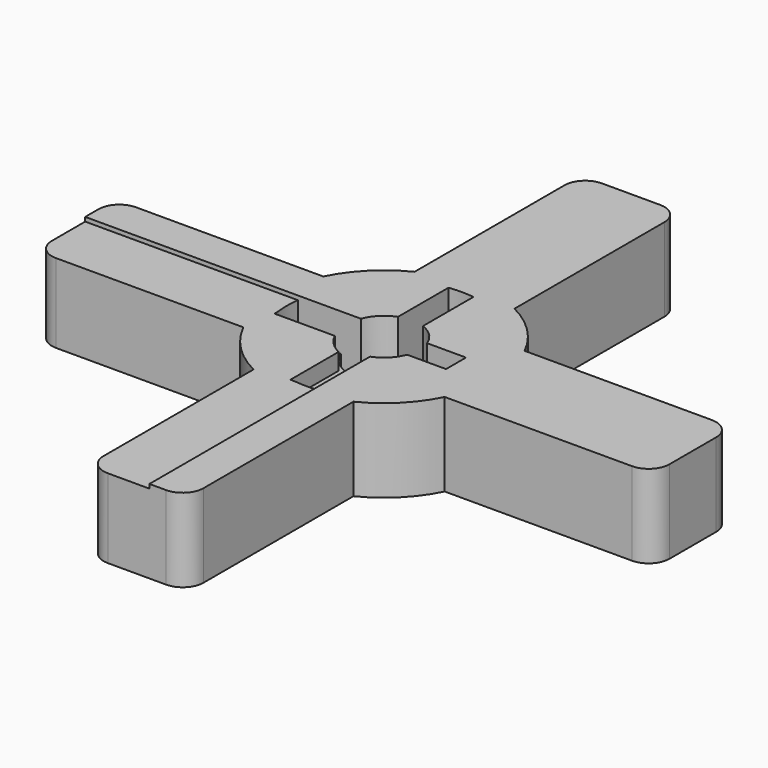
from build123d import *

# Parameters (mm, degrees)
F1_DEPTH = 20
F3_DEPTH = 1
F5_DEPTH = 4
F6_R     = 3
F7_DEPTH = 4
F8_R     = 6.5
F8_R_2   = 3
F9_DEPTH = 7


with BuildPart() as f1:
    # F0 (on Top) → F1 (new body)
    with BuildSketch(Plane.XY):
        with BuildLine():
            ThreePointArc((-24.1867732449, -12), (-27, 0), (-24.1867732449, 12))
            Line((-24.1867732449, 12), (-69.1867732449, 12))
            ThreePointArc((-69.1867732449, 12), (-72.7223071508, 10.5355339059), (-74.1867732449, 7))
            Line((-74.1867732449, 7), (-74.1867732449, -7))
            ThreePointArc((-74.1867732449, -7), (-72.7223071508, -10.5355339059), (-69.1867732449, -12))
            Line((-69.1867732449, -12), (-24.1867732449, -12))
        make_face()
        with BuildLine():
            ThreePointArc((24.1867732449, -12), (26.2872866383, -6.1626748408), (27, 0))
            ThreePointArc((27, 0), (26.2872866383, 6.1626748408), (24.1867732449, 12))
            ThreePointArc((24.1867732449, 12), (19.091883092, 19.091883092), (12, 24.1867732449))
            ThreePointArc((12, 24.1867732449), (0, 27), (-12, 24.1867732449))
            ThreePointArc((-12, 24.1867732449), (-19.091883092, 19.091883092), (-24.1867732449, 12))
            ThreePointArc((-24.1867732449, 12), (-27, 0), (-24.1867732449, -12))
            ThreePointArc((-24.1867732449, -12), (-19.091883092, -19.091883092), (-12, -24.1867732449))
            ThreePointArc((-12, -24.1867732449), (0, -27), (12, -24.1867732449))
            ThreePointArc((12, -24.1867732449), (19.091883092, -19.091883092), (24.1867732449, -12))
        make_face()
        with BuildLine():
            ThreePointArc((3, 23.1060598112), (17.5041423669, 15.3783939343), (23.3, 0))
            ThreePointArc((23.3, 0), (17.5041423669, -15.3783939343), (3, -23.1060598112))
            ThreePointArc((3, -23.1060598112), (0, -23.3), (-3, -23.1060598112))
            ThreePointArc((-3, -23.1060598112), (-16.4755880016, -16.4755880016), (-23.1060598112, -3))
            ThreePointArc((-23.1060598112, -3), (-23.3, 0), (-23.1060598112, 3))
            ThreePointArc((-23.1060598112, 3), (-16.4755880016, 16.4755880016), (-3, 23.1060598112))
            ThreePointArc((-3, 23.1060598112), (0, 23.3), (3, 23.1060598112))
        make_face(mode=Mode.SUBTRACT)
        with BuildLine():
            Line((-3, 7.9529868603), (-3, 23.1060598112))
            ThreePointArc((-3, 23.1060598112), (-16.4755880016, 16.4755880016), (-23.1060598112, 3))
            Line((-23.1060598112, 3), (-7.9529868603, 3))
            ThreePointArc((-7.9529868603, 3), (-6.0104076401, 6.0104076401), (-3, 7.9529868603))
        make_face()
        with BuildLine():
            ThreePointArc((3, -23.1060598112), (17.5041423669, -15.3783939343), (23.3, 0))
            ThreePointArc((23.3, 0), (17.5041423669, 15.3783939343), (3, 23.1060598112))
            Line((3, 23.1060598112), (3, 7.9529868603))
            ThreePointArc((3, 7.9529868603), (6.0104076401, 6.0104076401), (7.9529868603, 3))
            Line((7.9529868603, 3), (17.3, 3))
            Line((17.3, 3), (17.3, -3))
            Line((17.3, -3), (7.9529868603, -3))
            ThreePointArc((7.9529868603, -3), (6.0104076401, -6.0104076401), (3, -7.9529868603))
            Line((3, -7.9529868603), (3, -23.1060598112))
        make_face()
        with BuildLine():
            ThreePointArc((-23.1060598112, -3), (-16.4755880016, -16.4755880016), (-3, -23.1060598112))
            Line((-3, -23.1060598112), (-3, -7.9529868603))
            ThreePointArc((-3, -7.9529868603), (-6.0104076401, -6.0104076401), (-7.9529868603, -3))
            Line((-7.9529868603, -3), (-23.1060598112, -3))
        make_face()
        with BuildLine():
            ThreePointArc((-12, 24.1867732449), (0, 27), (12, 24.1867732449))
            Line((12, 24.1867732449), (12, 69.1867732449))
            ThreePointArc((12, 69.1867732449), (10.5355339059, 72.7223071508), (7, 74.1867732449))
            Line((7, 74.1867732449), (-7, 74.1867732449))
            ThreePointArc((-7, 74.1867732449), (-10.5355339059, 72.7223071508), (-12, 69.1867732449))
            Line((-12, 69.1867732449), (-12, 24.1867732449))
        make_face()
        with BuildLine():
            ThreePointArc((24.1867732449, 12), (26.2872866383, 6.1626748408), (27, 0))
            ThreePointArc((27, 0), (26.2872866383, -6.1626748408), (24.1867732449, -12))
            Line((24.1867732449, -12), (69.1867732449, -12))
            ThreePointArc((69.1867732449, -12), (72.7223071508, -10.5355339059), (74.1867732449, -7))
            Line((74.1867732449, -7), (74.1867732449, 7))
            ThreePointArc((74.1867732449, 7), (72.7223071508, 10.5355339059), (69.1867732449, 12))
            Line((69.1867732449, 12), (24.1867732449, 12))
        make_face()
        with BuildLine():
            Line((12, -69.1867732449), (12, -24.1867732449))
            ThreePointArc((12, -24.1867732449), (0, -27), (-12, -24.1867732449))
            Line((-12, -24.1867732449), (-12, -69.1867732449))
            ThreePointArc((-12, -69.1867732449), (-10.5355339059, -72.7223071508), (-7, -74.1867732449))
            Line((-7, -74.1867732449), (7, -74.1867732449))
            ThreePointArc((7, -74.1867732449), (10.5355339059, -72.7223071508), (12, -69.1867732449))
        make_face()
    extrude(amount=F1_DEPTH)

    # F2 (on face) → F3 (cut)
    with BuildSketch(Plane.XY.offset(20)):
        with BuildLine():
            Line((3, -74.1867732449), (3, -23.1060598112))
            ThreePointArc((3, -23.1060598112), (0, -23.3), (-3, -23.1060598112))
            Line((-3, -23.1060598112), (-3, -7.9529868603))
            ThreePointArc((-3, -7.9529868603), (-6.0104076401, -6.0104076401), (-7.9529868603, -3))
            Line((-7.9529868603, -3), (-23.1060598112, -3))
            ThreePointArc((-23.1060598112, -3), (-23.3, 0), (-23.1060598112, 3))
            Line((-23.1060598112, 3), (-74.1867732449, 3))
            Line((-74.1867732449, 3), (-74.1867732449, -7))
            ThreePointArc((-74.1867732449, -7), (-72.7223071508, -10.5355339059), (-69.1867732449, -12))
            Line((-69.1867732449, -12), (-24.1867732449, -12))
            ThreePointArc((-24.1867732449, -12), (-19.091883092, -19.091883092), (-12, -24.1867732449))
            Line((-12, -24.1867732449), (-12, -69.1867732449))
            ThreePointArc((-12, -69.1867732449), (-10.5355339059, -72.7223071508), (-7, -74.1867732449))
            Line((-7, -74.1867732449), (3, -74.1867732449))
        make_face()
    extrude(amount=-F3_DEPTH, mode=Mode.SUBTRACT)

    # F4 (on face) → F5 (cut)
    with BuildSketch(Plane.XY.offset(19)):
        with BuildLine():
            ThreePointArc((-8.6168439698, -4), (-6.7175144213, -6.7175144213), (-4, -8.6168439698))
            Line((-4, -8.6168439698), (-4, -23.1060598112))
            Line((-4, -23.1060598112), (-3, -23.1060598112))
            Line((-3, -23.1060598112), (-3, -7.9529868603))
            ThreePointArc((-3, -7.9529868603), (-6.0104076401, -6.0104076401), (-7.9529868603, -3))
            Line((-7.9529868603, -3), (-23.1060598112, -3))
            Line((-23.1060598112, -3), (-23.1060598112, -4))
            Line((-23.1060598112, -4), (-8.6168439698, -4))
        make_face()
    extrude(amount=-F5_DEPTH, mode=Mode.SUBTRACT)

    # F6 (on face) → F7 (join)
    with BuildSketch(Plane(origin=(0, 0, 0), x_dir=(1, 0, 0), z_dir=(0, 0, -1))):
        with BuildLine():
            ThreePointArc((-74.1867732449, -7), (-72.7223071508, -10.5355339059), (-69.1867732449, -12))
            Line((-69.1867732449, -12), (-24.1867732449, -12))
            ThreePointArc((-24.1867732449, -12), (-19.091883092, -19.091883092), (-12, -24.1867732449))
            Line((-12, -24.1867732449), (-12, -69.1867732449))
            ThreePointArc((-12, -69.1867732449), (-10.5355339059, -72.7223071508), (-7, -74.1867732449))
            Line((-7, -74.1867732449), (7, -74.1867732449))
            ThreePointArc((7, -74.1867732449), (10.5355339059, -72.7223071508), (12, -69.1867732449))
            Line((12, -69.1867732449), (12, -24.1867732449))
            ThreePointArc((12, -24.1867732449), (19.091883092, -19.091883092), (24.1867732449, -12))
            Line((24.1867732449, -12), (69.1867732449, -12))
            ThreePointArc((69.1867732449, -12), (72.7223071508, -10.5355339059), (74.1867732449, -7))
            Line((74.1867732449, -7), (74.1867732449, 7))
            ThreePointArc((74.1867732449, 7), (72.7223071508, 10.5355339059), (69.1867732449, 12))
            Line((69.1867732449, 12), (24.1867732449, 12))
            ThreePointArc((24.1867732449, 12), (19.091883092, 19.091883092), (12, 24.1867732449))
            Line((12, 24.1867732449), (12, 69.1867732449))
            ThreePointArc((12, 69.1867732449), (10.5355339059, 72.7223071508), (7, 74.1867732449))
            Line((7, 74.1867732449), (-7, 74.1867732449))
            ThreePointArc((-7, 74.1867732449), (-10.5355339059, 72.7223071508), (-12, 69.1867732449))
            Line((-12, 69.1867732449), (-12, 24.1867732449))
            ThreePointArc((-12, 24.1867732449), (-19.091883092, 19.091883092), (-24.1867732449, 12))
            Line((-24.1867732449, 12), (-69.1867732449, 12))
            ThreePointArc((-69.1867732449, 12), (-72.7223071508, 10.5355339059), (-74.1867732449, 7))
            Line((-74.1867732449, 7), (-74.1867732449, -7))
        make_face()
        with BuildLine():
            Line((3, -7.9529868603), (3, -23.1060598112))
            ThreePointArc((3, -23.1060598112), (0, -23.3), (-3, -23.1060598112))
            Line((-3, -23.1060598112), (-3, -7.9529868603))
            ThreePointArc((-3, -7.9529868603), (-6.0104076401, -6.0104076401), (-7.9529868603, -3))
            Line((-7.9529868603, -3), (-23.1060598112, -3))
            ThreePointArc((-23.1060598112, -3), (-23.3, 0), (-23.1060598112, 3))
            Line((-23.1060598112, 3), (-7.9529868603, 3))
            ThreePointArc((-7.9529868603, 3), (-6.0104076401, 6.0104076401), (-3, 7.9529868603))
            Line((-3, 7.9529868603), (-3, 23.1060598112))
            ThreePointArc((-3, 23.1060598112), (0, 23.3), (3, 23.1060598112))
            Line((3, 23.1060598112), (3, 7.9529868603))
            ThreePointArc((3, 7.9529868603), (6.0104076401, 6.0104076401), (7.9529868603, 3))
            Line((7.9529868603, 3), (17.3, 3))
            Line((17.3, 3), (17.3, -3))
            Line((17.3, -3), (7.9529868603, -3))
            ThreePointArc((7.9529868603, -3), (6.0104076401, -6.0104076401), (3, -7.9529868603))
        make_face(mode=Mode.SUBTRACT)
        with BuildLine():
            ThreePointArc((-3, -23.1060598112), (0, -23.3), (3, -23.1060598112))
            Line((3, -23.1060598112), (3, -7.9529868603))
            ThreePointArc((3, -7.9529868603), (6.0104076401, -6.0104076401), (7.9529868603, -3))
            Line((7.9529868603, -3), (17.3, -3))
            Line((17.3, -3), (17.3, 3))
            Line((17.3, 3), (7.9529868603, 3))
            ThreePointArc((7.9529868603, 3), (6.0104076401, 6.0104076401), (3, 7.9529868603))
            Line((3, 7.9529868603), (3, 23.1060598112))
            ThreePointArc((3, 23.1060598112), (0, 23.3), (-3, 23.1060598112))
            Line((-3, 23.1060598112), (-3, 7.9529868603))
            ThreePointArc((-3, 7.9529868603), (-6.0104076401, 6.0104076401), (-7.9529868603, 3))
            Line((-7.9529868603, 3), (-23.1060598112, 3))
            ThreePointArc((-23.1060598112, 3), (-23.3, 0), (-23.1060598112, -3))
            Line((-23.1060598112, -3), (-7.9529868603, -3))
            ThreePointArc((-7.9529868603, -3), (-6.0104076401, -6.0104076401), (-3, -7.9529868603))
            Line((-3, -7.9529868603), (-3, -23.1060598112))
        make_face()
        Circle(F6_R, mode=Mode.SUBTRACT)
    extrude(amount=-F7_DEPTH)

    # F8 (on face) → F9 (join)
    with BuildSketch(Plane.XY.offset(4)):
        Circle(F8_R)
        Circle(F8_R_2, mode=Mode.SUBTRACT)
    extrude(amount=F9_DEPTH)


solid = f1.part
